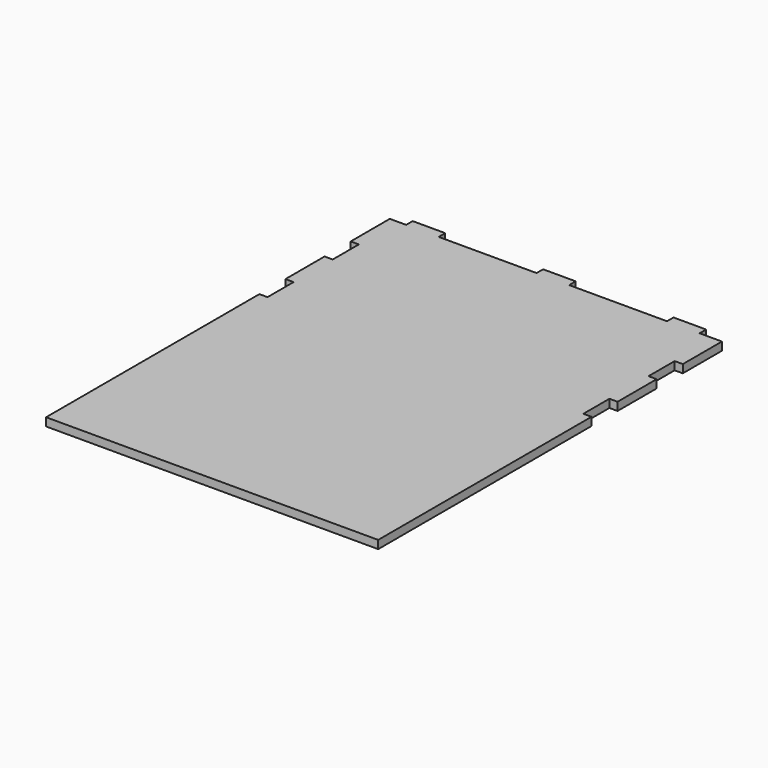
from build123d import *

# Parameters (mm, degrees)
F1_DEPTH = 12.7


with BuildPart() as f1:
    # F0 (on Top) → F1 (new body)
    with BuildSketch(Plane.XY):
        Polygon((-271.3609, 491.225816), (-296.7609, 491.225816), (-296.7609, 415.025816), (-284.0609, 415.025816), (-284.0609, 364.225816), (-296.7609, 364.225816), (-296.7609, 288.025816), (-284.0609, 288.025816), (-284.0609, 237.225816), (-296.7609, 237.225816), (-296.7609, -178.057545), (220.584742, -178.057545), (220.584742, 237.225816), (207.884742, 237.225816), (207.884742, 288.025816), (220.584742, 288.025816), (220.584742, 364.225816), (207.884742, 364.225816), (207.884742, 415.025816), (220.584742, 415.025816), (220.584742, 491.225816), (185.8391, 491.225816), (185.8391, 503.925816), (135.0391, 503.925816), (135.0391, 491.225816), (-17.3609, 491.225816), (-17.3609, 503.925816), (-68.1609, 503.925816), (-68.1609, 491.225816), (-220.5609, 491.225816), (-220.5609, 503.925816), (-271.3609, 503.925816), align=None)
    extrude(amount=F1_DEPTH)


solid = f1.part
